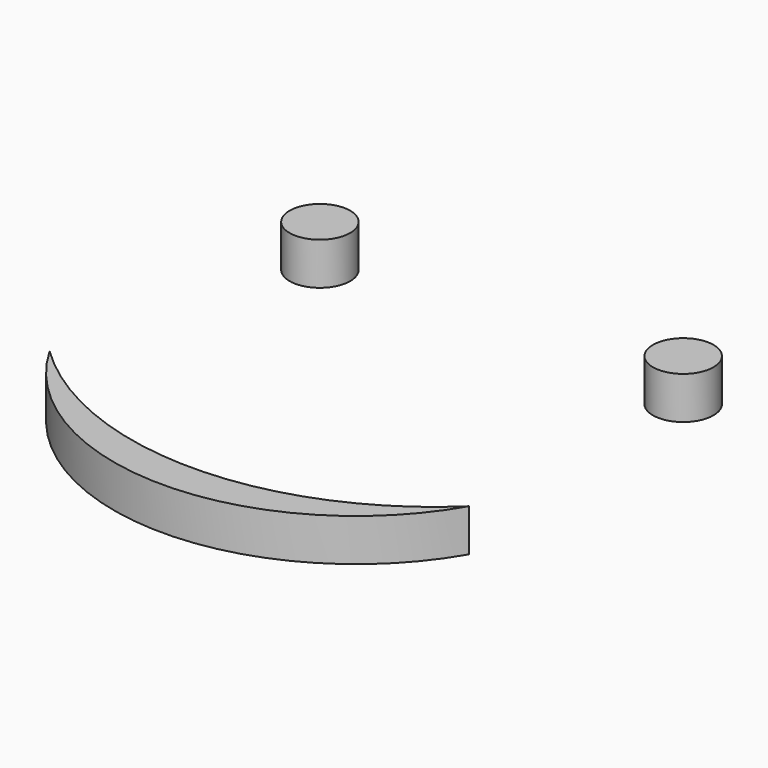
from build123d import *

# Parameters (mm, degrees)
F0_R     = 6.35
F1_DEPTH = 8.89


with BuildPart() as f1:
    # F0 (on Top) → F1 (new body)
    with BuildSketch(Plane.XY):
        with Locations((-38.1, 38.1)):
            Circle(F0_R)
        with Locations((38.1, 38.1)):
            Circle(F0_R)
        with BuildLine():
            ThreePointArc((43.994091, -25.4), (0, -43.109499), (-43.994091, -25.4))
            ThreePointArc((-43.994091, -25.4), (0, -50.8), (43.994091, -25.4))
        make_face()
    extrude(amount=F1_DEPTH)


solid = f1.part
